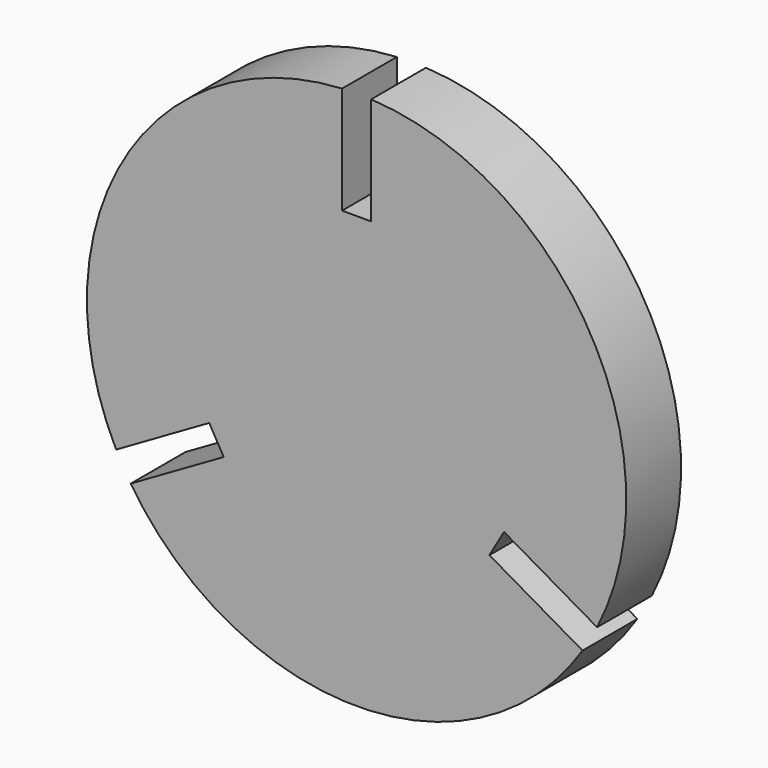
from build123d import *

# Parameters (mm, degrees)
F1_DEPTH = 6.35


with BuildPart() as f1:
    # F0 (on Front) → F1 (new body)
    with BuildSketch(Plane.XZ):
        with BuildLine():
            Line((-1.35, 15), (-1.35, 24.963523))
            ThreePointArc((-1.35, 24.963523), (-21.650635, 12.5), (-22.294045, -11.312627))
            Line((-22.294045, -11.312627), (-13.665381, -6.330866))
            Line((-13.665381, -6.330866), (-12.315381, -8.669134))
            Line((-12.315381, -8.669134), (-20.944045, -13.650896))
            ThreePointArc((-20.944045, -13.650896), (0, -25), (20.944045, -13.650896))
            Line((20.944045, -13.650896), (12.315381, -8.669134))
            Line((12.315381, -8.669134), (13.665381, -6.330866))
            Line((13.665381, -6.330866), (22.294045, -11.312627))
            ThreePointArc((22.294045, -11.312627), (21.650635, 12.5), (1.35, 24.963523))
            Line((1.35, 24.963523), (1.35, 15))
            Line((1.35, 15), (-1.35, 15))
        make_face()
    extrude(amount=F1_DEPTH)


solid = f1.part
